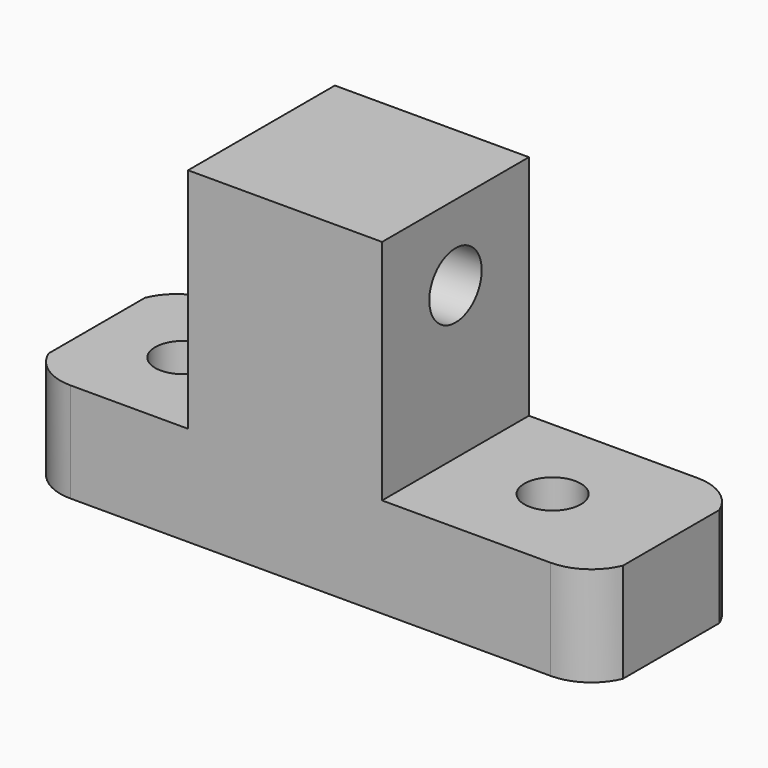
from build123d import *

# Parameters (mm, degrees)
F0_R     = 2.3
F1_DEPTH = 19
F3_DEPTH = 43.4
F5_R     = 6.25
F6_DEPTH = 20
F7_R     = 5.375
F8_DEPTH = 12


with BuildPart() as f1:
    # F0 (on Top) → F1 (new body)
    with BuildSketch(Plane.XY):
        with BuildLine():
            Line((84.03, 17.5), (-7.5, 17.5))
            ThreePointArc((-7.5, 17.5), (-12.908327, 15.86249), (-16.5, 11.5))
            Line((-16.5, 11.5), (-16.5, -11.5))
            ThreePointArc((-16.5, -11.5), (-12.908327, -15.86249), (-7.5, -17.5))
            Line((-7.5, -17.5), (84.03, -17.5))
            ThreePointArc((84.03, -17.5), (89.438327, -15.86249), (93.03, -11.5))
            Line((93.03, -11.5), (93.03, 11.5))
            ThreePointArc((93.03, 11.5), (89.438327, 15.86249), (84.03, 17.5))
        make_face()
        Circle(F0_R, mode=Mode.SUBTRACT)
        with Locations((70.419462, 0)):
            Circle(F0_R, mode=Mode.SUBTRACT)
    extrude(amount=F1_DEPTH)

    # F2 (on face) → F3 (join)
    with BuildSketch(Plane.XY.offset(19)):
        Polygon((14.9, 17.5), (14.9, 0), (14.9, -17.5), (51.9, -17.5), (51.9, 0), (51.9, 17.5), align=None)
    extrude(amount=F3_DEPTH)

    # F5 (on face) → F6 (cut)
    with BuildSketch(Plane.YZ.offset(51.9)):
        with Locations((0, 48)):
            Circle(F5_R)
    extrude(amount=-F6_DEPTH, mode=Mode.SUBTRACT)

    # F7 (on face) → F8 (cut)
    with BuildSketch(Plane.XY.offset(19)):
        Circle(F7_R)
        with Locations((70.419462, 0)):
            Circle(F7_R)
    extrude(amount=-F8_DEPTH, mode=Mode.SUBTRACT)


solid = f1.part
